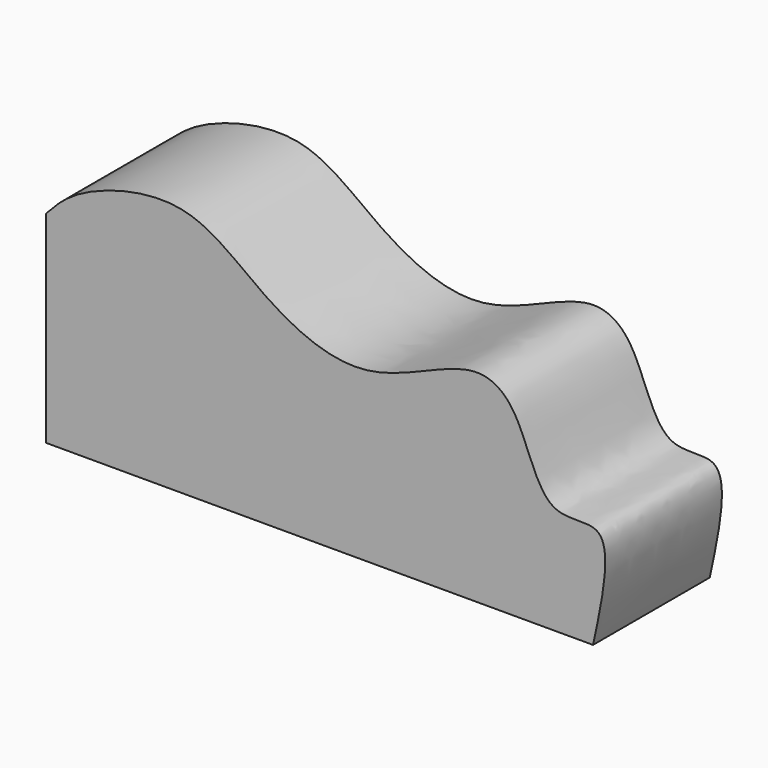
from build123d import *

# Parameters (mm, degrees)
F1_DEPTH = 16.51


with BuildPart() as f1:
    # F0 (on Front) → F1 (new body)
    with BuildSketch(Plane.XZ):
        with BuildLine():
            Line((0, 22.9960717261), (0, 0.1360699971))
            Line((0, 0.1360699971), (61.9125068188, 0.1360699971))
            add(Edge.make_bspline(
                [(0, 22.9960717261), (1.0339559385, 24.1163729616), (3.6082760335, 26.9056736229), (16.0050568531, 30.3975676045), (24.2327455042, 22.4994659992), (36.1724653879, 16.6888588649), (48.144850964, 24.8030618473), (53.9743956254, 20.6899299193), (56.1125435321, 10.4634876812), (64.8109705336, 13.6557432893), (63.0026545978, 5.2209850634), (61.9125068188, 0.1360699971)],
                knots=[0, 0, 0, 0, 0.0839169135, 0.208934432, 0.3317448874, 0.4618203159, 0.5932576898, 0.6820983931, 0.7919434011, 0.8745725596, 1, 1, 1, 1], degree=3))
        make_face()
    extrude(amount=F1_DEPTH)


solid = f1.part
